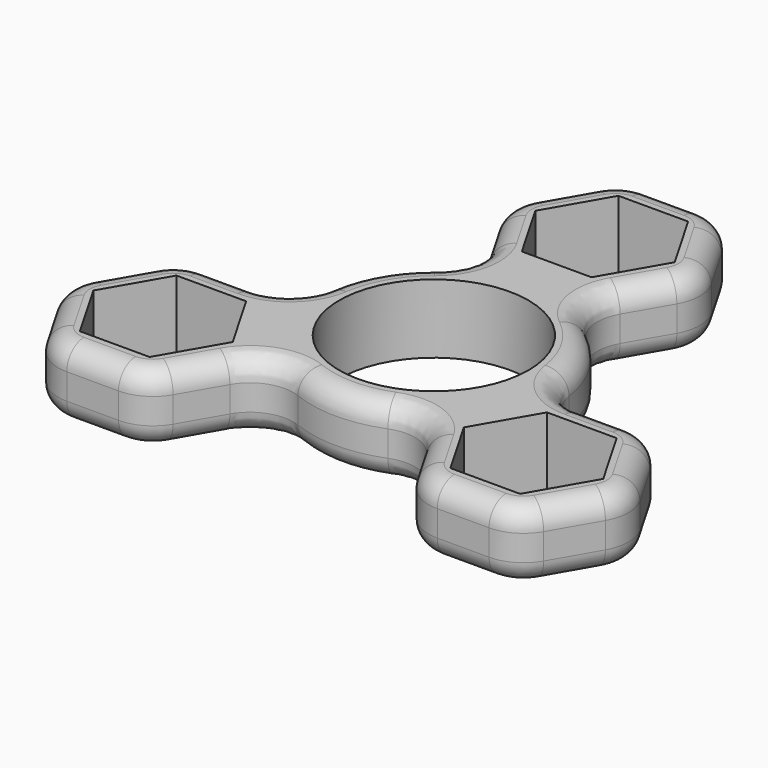
from build123d import *

# Parameters (mm, degrees)
F0_R     = 10.975
F1_DEPTH = 4
F2_R     = 5
F3_R     = 2.5


with BuildPart() as f1:
    # F0 (on Top) → F1 (new body, symmetric)
    with BuildSketch(Plane.XY):
        Polygon((5.8889727457, 14.6081419101), (11.7779454915, 24.8081419101), (5.8889727457, 35.0081419101), (-5.8889727457, 35.0081419101), (-11.7779454915, 24.8081419101), (-5.8889727457, 14.6081419101), align=None)
        Polygon((4.0414518843, 31.8081419101), (8.0829037687, 24.8081419101), (4.0414518843, 17.8081419101), (-4.0414518843, 17.8081419101), (-8.0829037687, 24.8081419101), (-4.0414518843, 31.8081419101), align=None, mode=Mode.SUBTRACT)
        with BuildLine():
            Line((5.0925165877, 13.2286393784), (5.8889727457, 14.6081419101))
            Line((5.8889727457, 14.6081419101), (-5.8889727457, 14.6081419101))
            Line((-5.8889727457, 14.6081419101), (-5.0925165877, 13.2286393784))
            ThreePointArc((-5.0925165877, 13.2286393784), (0, 14.175), (5.0925165877, 13.2286393784))
        make_face()
        with BuildLine():
            ThreePointArc((14.175, 0), (11.6858257652, 8.0232226184), (5.0925165877, 13.2286393784))
            ThreePointArc((5.0925165877, 13.2286393784), (0, 14.175), (-5.0925165877, 13.2286393784))
            ThreePointArc((-5.0925165877, 13.2286393784), (-12.2759100986, 7.0875), (-14.0025960531, -2.2040709551))
            ThreePointArc((-14.0025960531, -2.2040709551), (-12.2759100986, -7.0875), (-8.9100794654, -11.0245684233))
            ThreePointArc((-8.9100794654, -11.0245684233), (0, -14.175), (8.9100794654, -11.0245684233))
            ThreePointArc((8.9100794654, -11.0245684233), (12.2759100986, -7.0875), (14.0025960531, -2.2040709551))
            ThreePointArc((14.0025960531, -2.2040709551), (14.1318332861, -1.1054017252), (14.175, 0))
        make_face()
        Circle(F0_R, mode=Mode.SUBTRACT)
        with BuildLine():
            ThreePointArc((-8.9100794654, -11.0245684233), (-12.2759100986, -7.0875), (-14.0025960531, -2.2040709551))
            Line((-14.0025960531, -2.2040709551), (-15.5955083691, -2.2040709551))
            Line((-15.5955083691, -2.2040709551), (-9.7065356234, -12.4040709551))
            Line((-9.7065356234, -12.4040709551), (-8.9100794654, -11.0245684233))
        make_face()
        with BuildLine():
            Line((15.5955083691, -2.2040709551), (14.0025960531, -2.2040709551))
            ThreePointArc((14.0025960531, -2.2040709551), (12.2759100986, -7.0875), (8.9100794654, -11.0245684233))
            Line((8.9100794654, -11.0245684233), (9.7065356234, -12.4040709551))
            Line((9.7065356234, -12.4040709551), (15.5955083691, -2.2040709551))
        make_face()
        Polygon((-9.7065356234, -12.4040709551), (-15.5955083691, -2.2040709551), (-27.3734538606, -2.2040709551), (-33.2624266063, -12.4040709551), (-27.3734538606, -22.6040709551), (-15.5955083691, -22.6040709551), align=None)
        Polygon((-17.4430292305, -5.4040709551), (-13.4015773462, -12.4040709551), (-17.4430292305, -19.4040709551), (-25.5259329992, -19.4040709551), (-29.5673848835, -12.4040709551), (-25.5259329992, -5.4040709551), align=None, mode=Mode.SUBTRACT)
        Polygon((27.3734538606, -2.2040709551), (15.5955083691, -2.2040709551), (9.7065356234, -12.4040709551), (15.5955083691, -22.6040709551), (27.3734538606, -22.6040709551), (33.2624266063, -12.4040709551), align=None)
        Polygon((25.5259329992, -5.4040709551), (29.5673848835, -12.4040709551), (25.5259329992, -19.4040709551), (17.4430292305, -19.4040709551), (13.4015773462, -12.4040709551), (17.4430292305, -5.4040709551), align=None, mode=Mode.SUBTRACT)
    extrude(amount=F1_DEPTH, both=True)

    # F2
    f2_edges = [f1.edges().sort_by_distance(p)[0] for p in [
        (-5.092517, 13.228639, 0),
        (-14.002596, -2.204071, 0),
        (8.910079, -11.024568, 0),
        (-8.910079, -11.024568, 0),
        (14.002596, -2.204071, 0),
        (5.092517, 13.228639, 0),
        (27.373454, -2.204071, 0),
        (33.262427, -12.404071, 0),
        (27.373454, -22.604071, 0),
        (15.595508, -22.604071, 0),
        (-15.595508, -22.604071, 0),
        (-27.373454, -22.604071, 0),
        (-33.262427, -12.404071, 0),
        (-27.373454, -2.204071, 0),
        (-11.777945, 24.808142, 0),
        (-5.888973, 35.008142, 0),
        (5.888973, 35.008142, 0),
        (11.777945, 24.808142, 0),
    ]]
    fillet(f2_edges, radius=F2_R)

    # F3
    f3_edges = [f1.edges().sort_by_distance(p)[0] for p in [
        (-8.833459, 29.908142, -4),
        (-7.332348, 32.508142, 0),
        (-10.33457, 27.308142, 0),
        (-8.833459, 29.908142, 4),
    ]]
    fillet(f3_edges, radius=F3_R)


solid = f1.part
